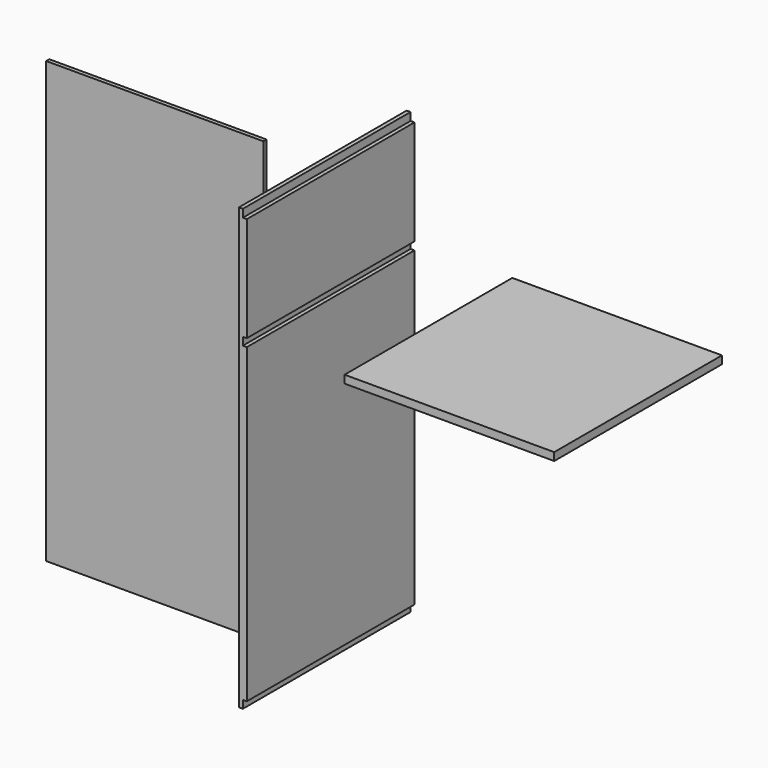
from build123d import *

# Parameters (mm, degrees)
F0_W      = 508
F0_H      = 1066.8
F1_DEPTH  = 19.05
F2_W      = 508
F2_H      = 19.05
F3_DEPTH  = 9.525
F4_W      = 508
F4_H      = 19.05
F5_DEPTH  = 9.525
F6_W      = 508
F6_H      = 19.05
F7_DEPTH  = 9.525
F8_W      = 508
F8_H      = 19.05
F9_DEPTH  = 508
F10_W     = 527.05
F10_H     = 1066.8
F11_DEPTH = 9.525


with BuildPart() as f1:
    # F0 (on Right) → F1 (new body)
    with BuildSketch(Plane.YZ):
        with Locations((218.073032, 465.918125)):
            Rectangle(F0_W, F0_H)
    extrude(amount=F1_DEPTH)

    # F2 (on face) → F3 (cut)
    with BuildSketch(Plane.YZ.offset(19.05)):
        with Locations((218.073032, 989.793125)):
            Rectangle(F2_W, F2_H)
    extrude(amount=-F3_DEPTH, mode=Mode.SUBTRACT)

    # F4 (on face) → F5 (cut)
    with BuildSketch(Plane.YZ.offset(19.05)):
        with Locations((218.073032, -57.956875)):
            Rectangle(F4_W, F4_H)
    extrude(amount=-F5_DEPTH, mode=Mode.SUBTRACT)

    # F6 (on face) → F7 (cut)
    with BuildSketch(Plane.YZ.offset(19.05)):
        with Locations((218.073032, 716.743125)):
            Rectangle(F6_W, F6_H)
    extrude(amount=-F7_DEPTH, mode=Mode.SUBTRACT)


with BuildPart() as f9:
    # F8 (on Front) → F9 (new body)
    with BuildSketch(Plane.XZ):
        with Locations((481.333307, 692.041873)):
            Rectangle(F8_W, F8_H)
    extrude(amount=-F9_DEPTH)


with BuildPart() as f11:
    # F10 (on face) → F11 (new body)
    with BuildSketch(Plane(origin=(0, 472.073032, 0), x_dir=(-1, 0, 0), z_dir=(0, 1, 0))):
        with Locations((610.26586, 287.42832)):
            Rectangle(F10_W, F10_H)
    extrude(amount=F11_DEPTH)


solid = Compound([f1.part, f9.part, f11.part])
